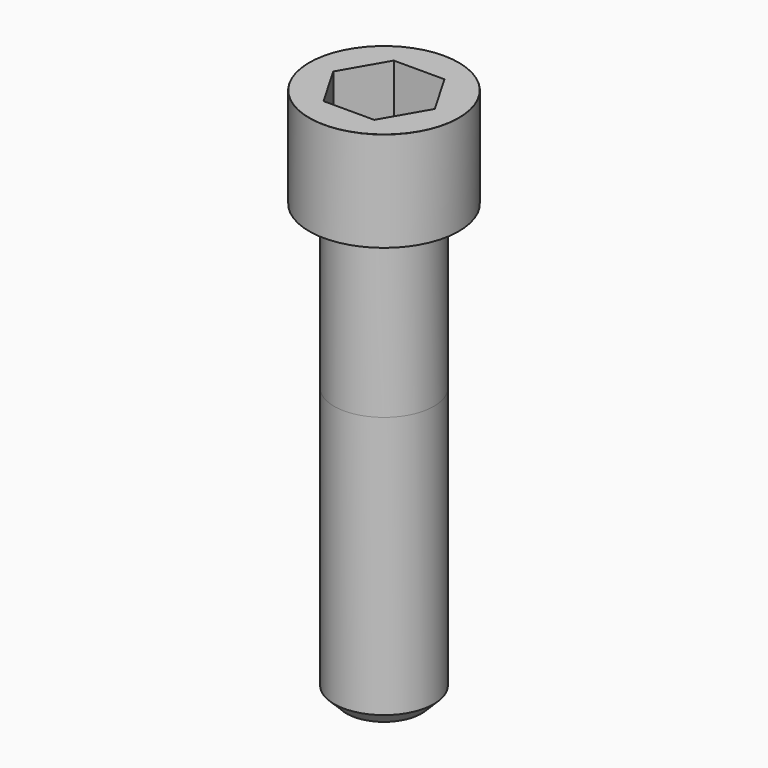
from build123d import *

# Parameters (mm, degrees)
POCKET_DEPTH = 14.08


with BuildPart() as part:
    # Sketch → Revolve (revolve)
    with BuildSketch(Plane.YZ):
        with BuildLine():
            Line((7.999, 0), (12, 0))
            Line((12, 0), (12, 15.97229))
            ThreePointArc((12, 15.97229), (11.991884, 15.991884), (11.97229, 16))
            Line((11.97229, 16), (0, 16))
            Line((0, -70), (0, 16))
            Line((6, -70), (0, -70))
            Line((8, -68), (6, -70))
            Line((8, -26), (8, -68))
            Line((7.999, 0), (8, -26))
        make_face()
    revolve(axis=Axis((0, 0, 0), (0, 0, 1)))

    # Sketch001 → Pocket (cut)
    with BuildSketch(Plane.XY.offset(16)):
        Polygon((8.129092, 0), (4.064546, 7.04), (-4.064546, 7.04), (-8.129092, 0), (-4.064546, -7.04), (4.064546, -7.04), align=None)
    extrude(amount=-POCKET_DEPTH, mode=Mode.SUBTRACT)


solid = part.part
